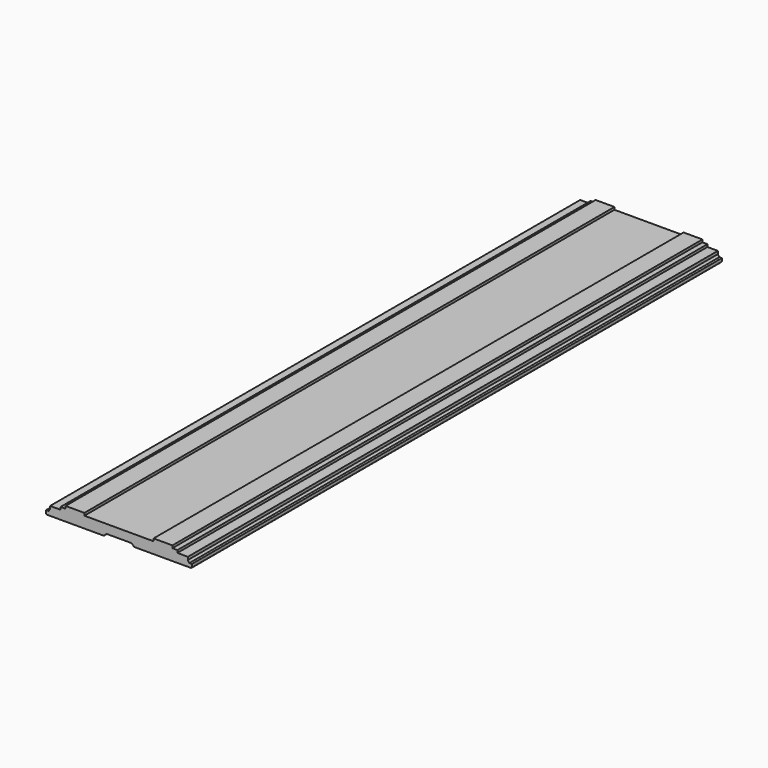
from build123d import *

# Parameters (mm, degrees)
F1_DEPTH = 263.5846
F2_SIZE  = 0.5


with BuildPart() as f1:
    # F0 (on Front) → F1 (new body, symmetric)
    with BuildSketch(Plane.XZ):
        Polygon((-10, 2), (0, 2), (10, 2), (12, 0), (58, 0), (58, 3), (56, 3), (54.8, 4.7), (54.8, 7), (46.5, 7), (46.5, 9), (42.5, 9), (42.5, 11), (27.5, 11), (27.5, 9), (0, 9), (-27.5, 9), (-27.5, 11), (-42.5, 11), (-42.5, 9), (-46.5, 9), (-46.5, 7), (-54.8, 7), (-54.8, 4.7), (-56, 3), (-58, 3), (-58, 0), (-12, 0), align=None)
    extrude(amount=F1_DEPTH, both=True)

    # F2
    f2_edges = [f1.edges().sort_by_distance(p)[0] for p in [
        (58, 0, 0),
        (-58, 0, 0),
    ]]
    chamfer(f2_edges, length=F2_SIZE)


solid = f1.part
